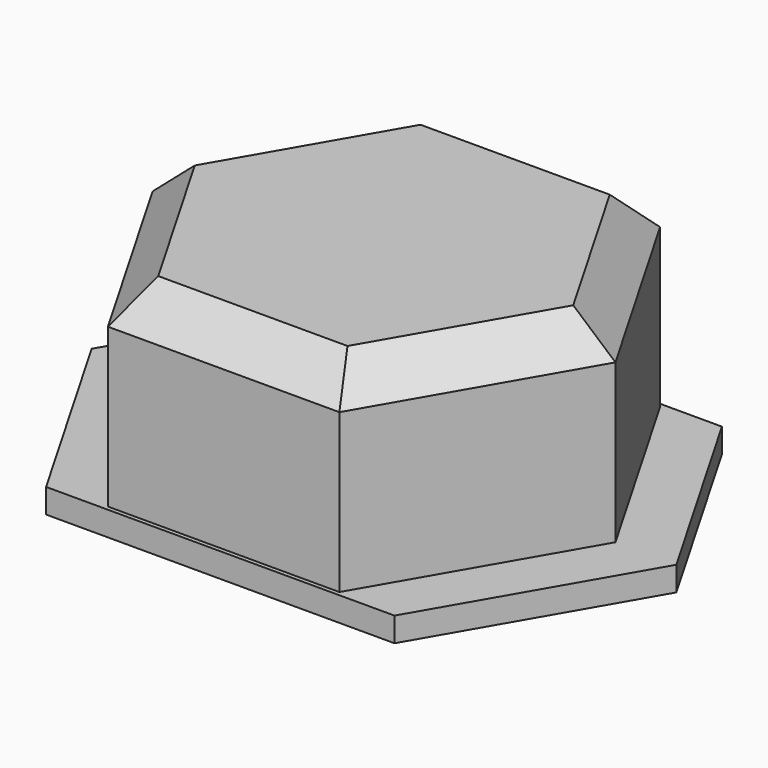
from build123d import *

# Parameters (mm, degrees)
BOX036_W        = 26
BOX036_H        = 10
BOX036_DEPTH    = 10
BOX035_W        = 26
BOX035_H        = 10
BOX035_DEPTH    = 10
PRISM011_DEPTH  = 2
PRISM010_DEPTH  = 1
PRISM009_DEPTH  = 9
CHAMFER006_SIZE = 1.5


with BuildPart() as cubo032:
    # Box036 → Box036 (new body)
    with BuildSketch(Plane(origin=(-95, -18.4, 0), x_dir=(1, 0, 0), z_dir=(0, 0, 1))):
        with Locations((13, 5)):
            Rectangle(BOX036_W, BOX036_H)
    extrude(amount=BOX036_DEPTH)


with BuildPart() as fusion016:
    # Box035 → Box035 (new body)
    with BuildSketch(Plane(origin=(-95, 8.4, 0), x_dir=(1, 0, 0), z_dir=(0, 0, 1))):
        with Locations((13, 5)):
            Rectangle(BOX035_W, BOX035_H)
    extrude(amount=BOX035_DEPTH)

    # Fusion016: union Cubo032
    add(cubo032.part)


with BuildPart() as prisma008:
    # Prism011 → Prism011 (new body)
    with BuildSketch(Plane.XY):
        Polygon((7.5, 0), (3.75, 6.495191), (-3.75, 6.495191), (-7.5, 0), (-3.75, -6.495191), (3.75, -6.495191), align=None)
    extrude(amount=PRISM011_DEPTH)


with BuildPart() as prisma007:
    # Prism010 → Prism010 (new body)
    with BuildSketch(Plane.XY):
        Polygon((12, 0), (6, 10.392305), (-6, 10.392305), (-12, 0), (-6, -10.392305), (6, -10.392305), align=None)
    extrude(amount=PRISM010_DEPTH)


with BuildPart() as chamfer006:
    # Prism009 → Prism009 (new body)
    with BuildSketch(Plane.XY):
        Polygon((9.5, 0), (4.75, 8.227241), (-4.75, 8.227241), (-9.5, 0), (-4.75, -8.227241), (4.75, -8.227241), align=None)
    extrude(amount=PRISM009_DEPTH)

    # Fusion015: union Prisma007
    add(prisma007.part)

    # Cut018: cut Prisma008
    add(prisma008.part, mode=Mode.SUBTRACT)


with BuildPart() as chamfer006_1:
    # Cut018 placement: moved
    add(chamfer006.part.moved(Location((-81, 0, 0))))

    # Cut019: cut Fusion016
    add(fusion016.part, mode=Mode.SUBTRACT)

    # Chamfer006
    chamfer006_edges = [chamfer006_1.edges().sort_by_distance(p)[0] for p in [
        (-73.875, 4.113621, 9),
        (-73.875, -4.113621, 9),
        (-81, 8.227241, 9),
        (-81, -8.227241, 9),
        (-88.125, 4.113621, 9),
        (-88.125, -4.113621, 9),
    ]]
    chamfer(chamfer006_edges, length=CHAMFER006_SIZE)


solid = chamfer006_1.part
